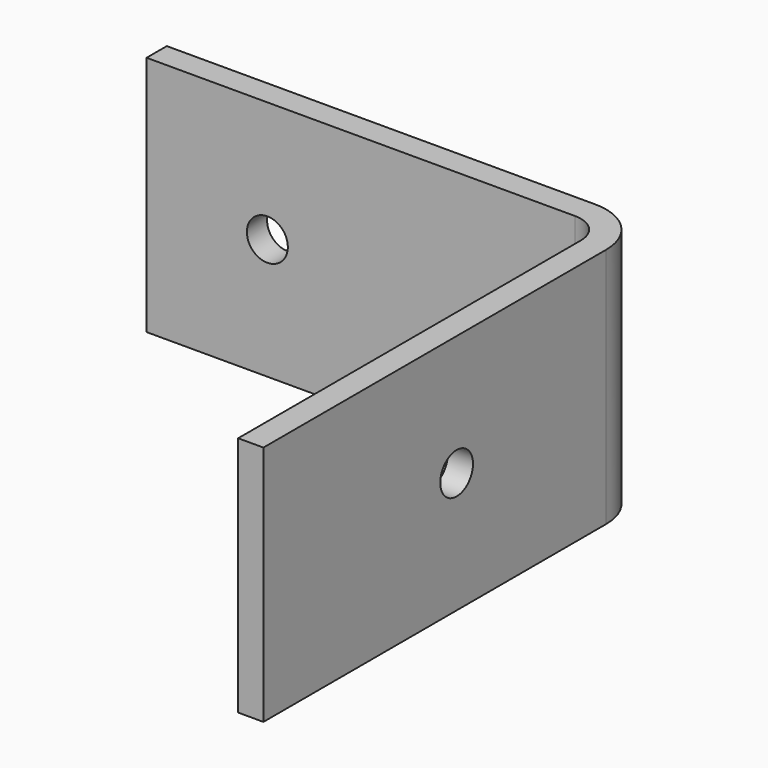
from build123d import *

# Parameters (mm, degrees)
F1_DEPTH = 25.4
F2_R     = 2.15265
F3_DEPTH = 2.65684
F4_R     = 2.15265
F5_DEPTH = 2.65684
F6_R     = 3.08356
F7_R     = 5.7404


with BuildPart() as f1:
    # F0 (on Top) → F1 (new body)
    with BuildSketch(Plane.XY):
        Polygon((0, 2.65684), (0, 0), (48.14316, 0), (48.14316, -48.14316), (50.8, -48.14316), (50.8, 2.65684), align=None)
    extrude(amount=F1_DEPTH)

    # F2 (on face) → F3 (cut, through all)
    with BuildSketch(Plane(origin=(0, 2.65684, 0), x_dir=(-1, 0, 0), z_dir=(0, 1, 0))):
        with Locations((-12.7, 12.7)):
            Circle(F2_R)
    extrude(amount=-F3_DEPTH, mode=Mode.SUBTRACT)

    # F4 (on face) → F5 (cut, through all)
    with BuildSketch(Plane.YZ.offset(50.8)):
        with Locations((-22.74316, 12.7)):
            Circle(F4_R)
    extrude(amount=-F5_DEPTH, mode=Mode.SUBTRACT)

    # F6
    f6_edges = [f1.edges().sort_by_distance(p)[0] for p in [
        (48.14316, 0, 12.7),
    ]]
    fillet(f6_edges, radius=F6_R)

    # F7
    f7_edges = [f1.edges().sort_by_distance(p)[0] for p in [
        (50.8, 2.65684, 12.7),
    ]]
    fillet(f7_edges, radius=F7_R)


solid = f1.part
